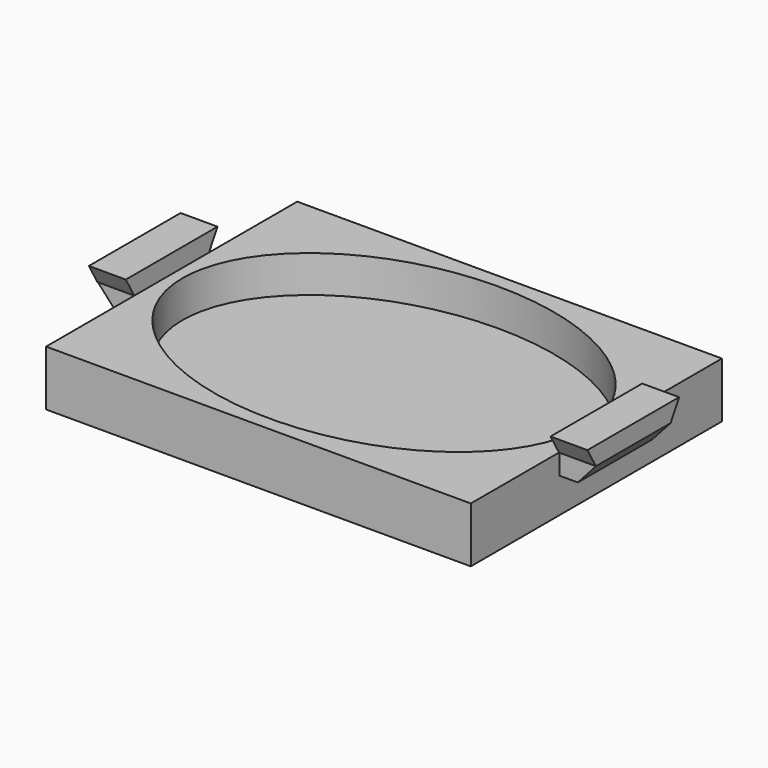
from build123d import *

# Parameters (mm, degrees)
F0_W      = 292.1
F0_H      = 215.9
F1_DEPTH  = 38.1
F3_DEPTH  = 25.4
F5_DEPTH  = 25.4
F7_W      = 63.875694
F7_H      = 14.103815
F8_DEPTH  = 25.4
F10_DEPTH = 127


with BuildPart() as f1:
    # F0 (on Top) → F1 (new body)
    with BuildSketch(Plane.XY):
        Rectangle(F0_W, F0_H)
    extrude(amount=F1_DEPTH)

    # F2 (on face) → F3 (cut)
    with BuildSketch(Plane.XY.offset(38.1)):
        with BuildLine():
            add(Edge.make_bspline(
                [(-138.558865, 0), (-138.558865, -170.337682), (69.279432, -85.168841), (277.117729, 0), (69.279432, 85.168841), (-138.558865, 170.337682), (-138.558865, 0)],
                knots=[0, 0, 0, 2.094395, 2.094395, 4.18879, 4.18879, 6.283185, 6.283185, 6.283185], degree=2, weights=[1, 0.5, 1, 0.5, 1, 0.5, 1]))
        make_face()
    extrude(amount=-F3_DEPTH, mode=Mode.SUBTRACT)


with BuildPart() as f5:
    # F4 (on face) → F5 (new body)
    with BuildSketch(Plane(origin=(-146.05, 0, 0), x_dir=(0, -1, 0), z_dir=(-1, 0, 0))):
        Polygon((-39.420072, 50.8), (-32.135336, 38.1), (0, 38.1), (32.135336, 38.1), (39.420072, 50.8), align=None)
    extrude(amount=F5_DEPTH)


with BuildPart() as f6_1:
    # F6: instance of F5
    add(f5.part.mirror(Plane.YZ))


with BuildPart() as f8:
    # F7 (on face) → F8 (new body)
    with BuildSketch(Plane(origin=(-146.05, 0, 0), x_dir=(0, -1, 0), z_dir=(-1, 0, 0))):
        with Locations((-0.130361, 31.048093)):
            Rectangle(F7_W, F7_H)
    extrude(amount=F8_DEPTH)

    # F9 (on face) → F10 (cut)
    with BuildSketch(Plane(origin=(0, 32.068208, 0), x_dir=(-1, 0, 0), z_dir=(0, 1, 0))):
        Polygon((171.45, 23.996185), (171.45, 38.1), (158.75, 23.996185), align=None)
    extrude(amount=-F10_DEPTH, mode=Mode.SUBTRACT)


with BuildPart() as f11_1:
    # F11: instance of F8
    add(f8.part.mirror(Plane.YZ))


solid = Compound([f1.part, f5.part, f6_1.part, f8.part, f11_1.part])
